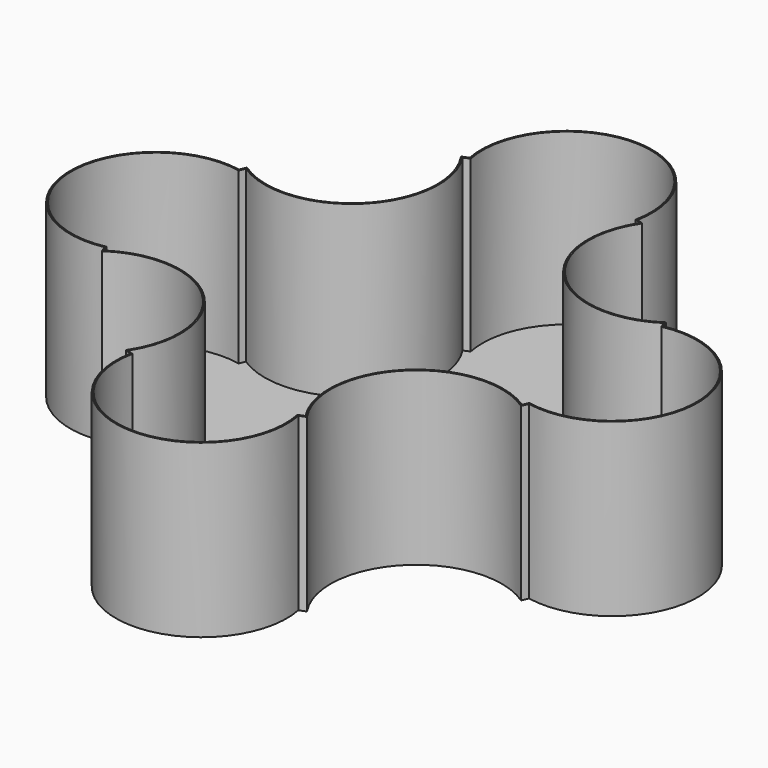
from build123d import *

# Parameters (mm, degrees)
F1_DEPTH = 300
F2_T     = -2.5


with BuildPart() as f1:
    # F0 (on Top) → F1 (new body)
    with BuildSketch(Plane.XY):
        with BuildLine():
            ThreePointArc((-158.7704400152, 367.1402284923), (-176.7766952966, 176.7766952966), (-367.1402284923, 158.7704400152))
            ThreePointArc((-367.1402284923, 158.7704400152), (-369.5518130045, 153.073372946), (-371.875, 147.3396904266))
            ThreePointArc((-371.875, 147.3396904266), (-550, 0), (-371.875, -147.3396904266))
            ThreePointArc((-371.875, -147.3396904266), (-369.5518130045, -153.073372946), (-367.1402284923, -158.7704400152))
            ThreePointArc((-367.1402284923, -158.7704400152), (-176.7766952966, -176.7766952966), (-158.7704400152, -367.1402284923))
            ThreePointArc((-158.7704400152, -367.1402284923), (-153.073372946, -369.5518130045), (-147.3396904266, -371.875))
            ThreePointArc((-147.3396904266, -371.875), (0, -550), (147.3396904266, -371.875))
            ThreePointArc((147.3396904266, -371.875), (153.073372946, -369.5518130045), (158.7704400152, -367.1402284923))
            ThreePointArc((158.7704400152, -367.1402284923), (176.7766952966, -176.7766952966), (367.1402284923, -158.7704400152))
            ThreePointArc((367.1402284923, -158.7704400152), (369.5518130045, -153.073372946), (371.875, -147.3396904266))
            ThreePointArc((371.875, -147.3396904266), (550, 0), (371.875, 147.3396904266))
            ThreePointArc((371.875, 147.3396904266), (369.5518130045, 153.073372946), (367.1402284923, 158.7704400152))
            ThreePointArc((367.1402284923, 158.7704400152), (176.7766952966, 176.7766952966), (158.7704400152, 367.1402284923))
            ThreePointArc((158.7704400152, 367.1402284923), (153.073372946, 369.5518130045), (147.3396904266, 371.875))
            ThreePointArc((147.3396904266, 371.875), (0, 550), (-147.3396904266, 371.875))
            ThreePointArc((-147.3396904266, 371.875), (-153.073372946, 369.5518130045), (-158.7704400152, 367.1402284923))
        make_face()
    extrude(amount=F1_DEPTH)

    # F2
    f2_openings = [f1.faces().sort_by_distance(p)[0] for p in [
        (0, 0, 300),
    ]]
    offset(amount=F2_T, openings=f2_openings, kind=Kind.INTERSECTION)


solid = f1.part
